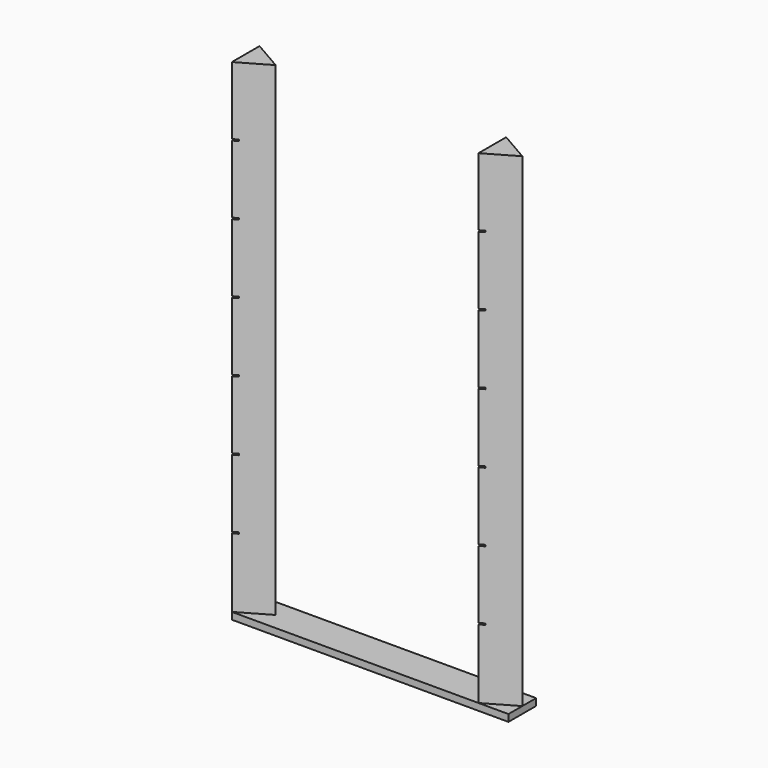
from build123d import *

# Parameters (mm, degrees)
F0_W     = 40
F0_H     = 5
F1_DEPTH = 1
F3_DEPTH = 71
F4_W     = 0.4
F4_H     = 0.2
F5_DEPTH = 40.001


with BuildPart() as f1:
    # F0 (on Top) → F1 (new body)
    with BuildSketch(Plane.XY):
        Rectangle(F0_W, F0_H)
    extrude(amount=F1_DEPTH)

    # F2 (on Top) → F3 (join)
    with BuildSketch(Plane.XY):
        Polygon((-15.669873, 0), (-20, 2.5), (-20, -2.5), align=None)
        Polygon((20, 0), (15.669873, 2.5), (15.669873, -2.5), align=None)
    extrude(amount=F3_DEPTH)

    # F4 (on face) → F5 (cut, through all)
    with BuildSketch(Plane(origin=(-20, 0, 0), x_dir=(0, -1, 0), z_dir=(-1, 0, 0))):
        with Locations((2.3, 11.1)):
            Rectangle(F4_W, F4_H)
        with Locations((2.3, 21.1)):
            Rectangle(F4_W, F4_H)
        with Locations((2.3, 31.1)):
            Rectangle(F4_W, F4_H)
        with Locations((2.3, 41.1)):
            Rectangle(F4_W, F4_H)
        with Locations((2.3, 51.1)):
            Rectangle(F4_W, F4_H)
        with Locations((2.3, 61.1)):
            Rectangle(F4_W, F4_H)
        with Locations((2.3, 71.1)):
            Rectangle(F4_W, F4_H)
    extrude(amount=-F5_DEPTH, mode=Mode.SUBTRACT)


solid = f1.part
